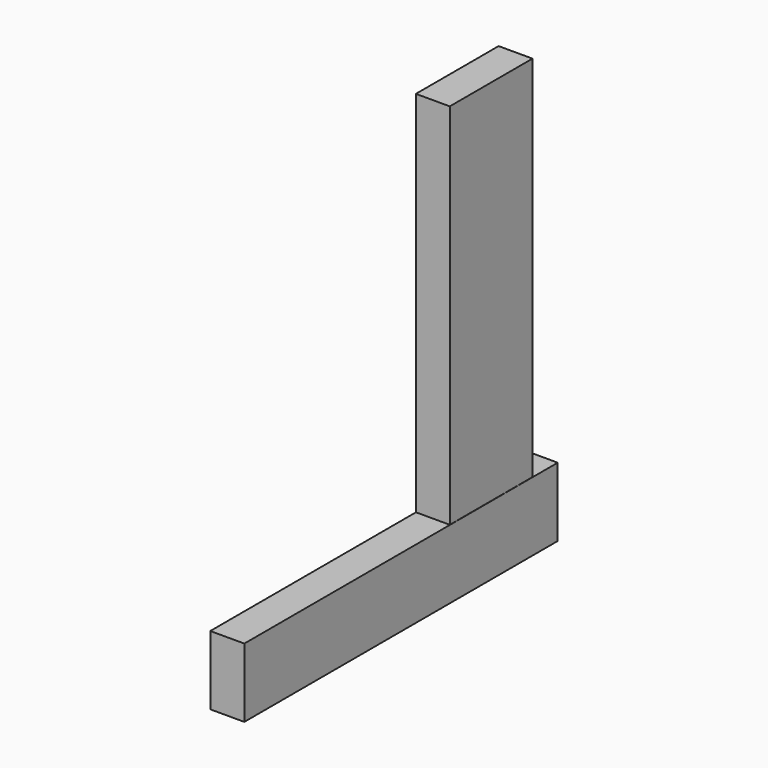
from build123d import *

# Parameters (mm, degrees)
F2_W     = 5.892384
F2_H     = 67.802921
F3_DEPTH = 11.938
F4_W     = 5.865395
F4_H     = 17.896974
F5_DEPTH = 75.692


with BuildPart() as f3:
    # F2 (on Top) → F3 (new body)
    with BuildSketch(Plane.XY):
        with Locations((9.056895, -33.90146)):
            Rectangle(F2_W, F2_H)
    extrude(amount=F3_DEPTH)

    # F4 (on Top) → F5 (join)
    with BuildSketch(Plane.XY):
        with Locations((9.033198, -14.361172)):
            Rectangle(F4_W, F4_H)
    extrude(amount=F5_DEPTH)


solid = f3.part
